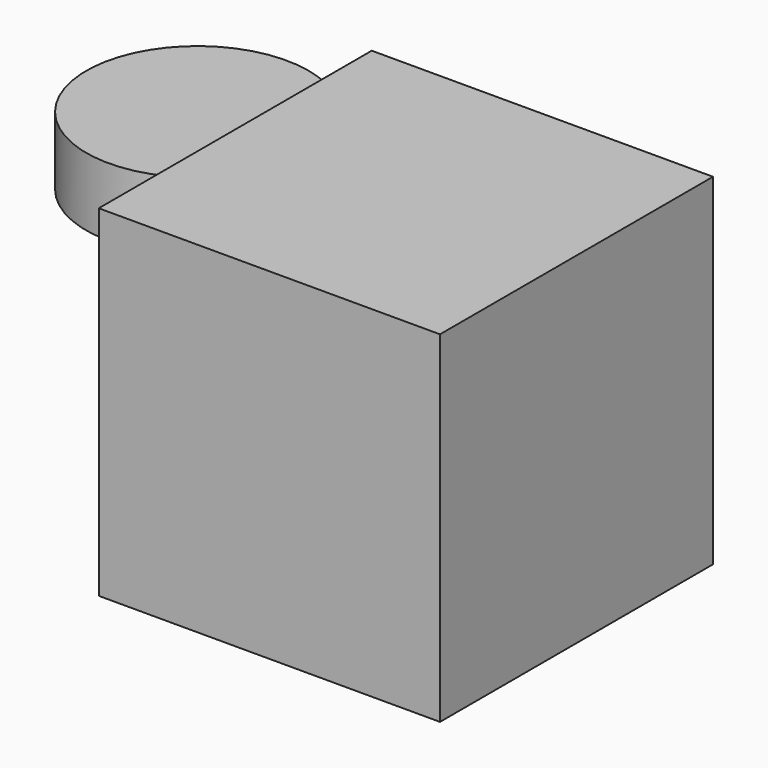
from build123d import *

# Parameters (mm, degrees)
F0_W     = 50
F0_H     = 50
F1_DEPTH = 25
F2_R     = 16.301144
F3_DEPTH = 5


with BuildPart() as f1:
    # F0 (on Top) → F1 (new body, symmetric)
    with BuildSketch(Plane.XY):
        Rectangle(F0_W, F0_H)
    extrude(amount=F1_DEPTH, both=True)


with BuildPart() as f3:
    # F2 (on Top) → F3 (new body, symmetric)
    with BuildSketch(Plane.XY):
        with Locations((-55.100501, 30.709347)):
            Circle(F2_R)
    extrude(amount=F3_DEPTH, both=True)


solid = Compound([f1.part, f3.part])
